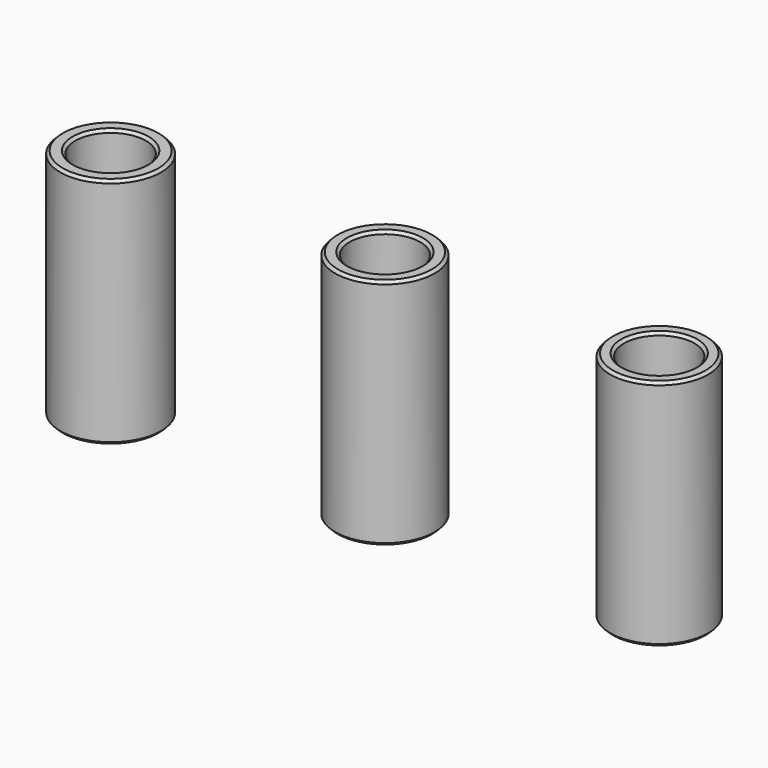
from build123d import *

# Parameters (mm, degrees)
F0_R     = 7.25
F0_R_2   = 5.15
F0_R_3   = 7.35
F0_R_4   = 7.15
F1_DEPTH = 34
F2_SIZE  = 0.4
F3_SIZE  = 0.4


with BuildPart() as f1:
    # F0 (on Top) → F1 (new body)
    with BuildSketch(Plane.XY):
        Circle(F0_R)
        Circle(F0_R_2, mode=Mode.SUBTRACT)
        with Locations((-40, 0)):
            Circle(F0_R_3)
        with Locations((-40, 0)):
            Circle(F0_R_2, mode=Mode.SUBTRACT)
        with Locations((40, 0)):
            Circle(F0_R_4)
        with Locations((40, 0)):
            Circle(F0_R_2, mode=Mode.SUBTRACT)
    extrude(amount=F1_DEPTH)

    # F2
    f2_edges = [f1.edges().sort_by_distance(p)[0] for p in [
        (-7.25, 0, 0),
        (-47.35, 0, 0),
        (-45.15, 0, 0),
        (32.85, 0, 0),
        (34.85, 0, 0),
        (-5.15, 0, 0),
    ]]
    chamfer(f2_edges, length=F2_SIZE)

    # F3
    f3_edges = [f1.edges().sort_by_distance(p)[0] for p in [
        (-7.25, 0, 34),
        (-47.35, 0, 34),
        (-45.15, 0, 34),
        (32.85, 0, 34),
        (34.85, 0, 34),
        (-5.15, 0, 34),
    ]]
    chamfer(f3_edges, length=F3_SIZE)


solid = f1.part
